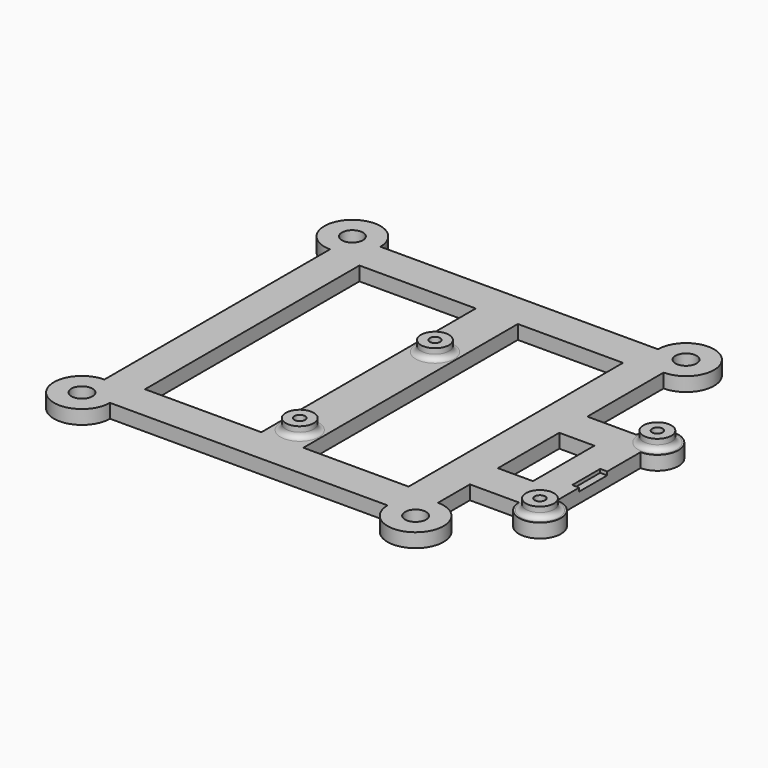
from build123d import *

# Parameters (mm, degrees)
SKETCH_R      = 1.5
SKETCH_R_2    = 3
SKETCH_W      = 33.214997
SKETCH_H      = 76.52
SKETCH_W_2    = 30.035003
SKETCH_W_3    = 10.005
SKETCH_H_2    = 21.910002
PAD_DEPTH     = 4
SKETCH001_R   = 4
SKETCH001_R_2 = 1.5
PAD001_DEPTH  = 3
FILLET_R      = 1.5
SKETCH002_W   = 10
SKETCH002_H   = 1
POCKET_DEPTH  = 2
CHAMFER_SIZE  = 1.5


with BuildPart() as obj1:
    # Sketch → Pad (new body)
    with BuildSketch(Plane.XY):
        with BuildLine():
            ThreePointArc((2.930002, 28.879999), (-10.726853, 34.536854), (-5.069998, 20.879999))
            Line((-5.069998, 20.879999), (-5.069998, -59.640001))
            ThreePointArc((-5.069998, -59.640001), (-10.726853, -73.296855), (2.930002, -67.640001))
            Line((2.930002, -67.640001), (82.180002, -67.640001))
            ThreePointArc((82.180002, -67.640001), (95.836856, -73.296855), (90.180002, -59.640001))
            Line((90.180002, -48.259999), (90.180002, -59.640001))
            Line((104.184999, -48.259999), (90.180002, -48.259999))
            ThreePointArc((104.184999, -48.259999), (114.427638, -52.502641), (110.185002, -42.259999))
            Line((110.185002, -12.349997), (110.185002, -42.259999))
            ThreePointArc((110.185002, -12.349997), (114.427643, -2.107356), (104.185002, -6.349997))
            Line((90.180002, -6.349997), (104.185002, -6.349997))
            Line((90.180002, 20.879999), (90.180002, -6.349997))
            ThreePointArc((90.180002, 20.879999), (95.836856, 34.536854), (82.180002, 28.879999))
            Line((2.930002, 28.879999), (82.180002, 28.879999))
        make_face()
        with Locations((44.145001, -51.434998)):
            Circle(SKETCH_R, mode=Mode.SUBTRACT)
        with Locations((110.184999, -48.259999)):
            Circle(SKETCH_R, mode=Mode.SUBTRACT)
        with Locations((44.144999, -3.174998)):
            Circle(SKETCH_R, mode=Mode.SUBTRACT)
        with Locations((110.185002, -6.349997)):
            Circle(SKETCH_R, mode=Mode.SUBTRACT)
        with Locations((-5.069998, 28.879999)):
            Circle(SKETCH_R_2, mode=Mode.SUBTRACT)
        with Locations((-5.069998, -67.640001)):
            Circle(SKETCH_R_2, mode=Mode.SUBTRACT)
        with Locations((90.180002, -67.640001)):
            Circle(SKETCH_R_2, mode=Mode.SUBTRACT)
        with Locations((90.180002, 28.879999)):
            Circle(SKETCH_R_2, mode=Mode.SUBTRACT)
        with Locations((21.537501, -19.380001)):
            Rectangle(SKETCH_W, SKETCH_H, mode=Mode.SUBTRACT)
        with Locations((65.1625, -19.380001)):
            Rectangle(SKETCH_W_2, SKETCH_H, mode=Mode.SUBTRACT)
        with Locations((95.182502, -27.304998)):
            Rectangle(SKETCH_W_3, SKETCH_H_2, mode=Mode.SUBTRACT)
    extrude(amount=PAD_DEPTH)


with BuildPart() as top_supports_final:
    # Pad001 base: copy of obj1
    add(obj1.part)

    # Sketch001 → Pad001 (new body)
    with BuildSketch(Plane.XY.offset(4)):
        with Locations((44.144999, -3.174998)):
            Circle(SKETCH001_R)
        with Locations((44.144999, -3.174998)):
            Circle(SKETCH001_R_2, mode=Mode.SUBTRACT)
        with Locations((44.145001, -51.434998)):
            Circle(SKETCH001_R)
        with Locations((44.145001, -51.434998)):
            Circle(SKETCH001_R_2, mode=Mode.SUBTRACT)
        with Locations((110.184999, -48.259999)):
            Circle(SKETCH001_R)
        with Locations((110.184999, -48.259999)):
            Circle(SKETCH001_R_2, mode=Mode.SUBTRACT)
        with Locations((110.185002, -6.349997)):
            Circle(SKETCH001_R)
        with Locations((110.185002, -6.349997)):
            Circle(SKETCH001_R_2, mode=Mode.SUBTRACT)
    extrude(amount=PAD001_DEPTH)


with BuildPart() as top_support_fillets:
    # Fillet base: copy of top_supports_final
    add(top_supports_final.part)

    # Fillet
    fillet_edges = [top_support_fillets.edges().sort_by_distance(p)[0] for p in [
        (106.184999, -48.259999, 4),
        (40.144999, -3.174998, 4),
        (40.145001, -51.434998, 4),
        (106.185002, -6.349997, 4),
    ]]
    fillet(fillet_edges, radius=FILLET_R)


with BuildPart() as base_rough:
    # Fusion base: copy of obj1
    add(obj1.part)

    # Fusion: union top_support_fillets, top_supports_final
    add(top_support_fillets.part)
    add(top_supports_final.part)


with BuildPart() as base_rough_1:
    # Fusion placement: moved
    add(base_rough.part.moved(Location((0, 0, -7))))


with BuildPart() as hdmi_clearance:
    # Pocket base: copy of base_rough
    add(base_rough_1.part)

    # Sketch002 → Pocket (cut)
    with BuildSketch(Plane(origin=(110.185002, 0, -7), x_dir=(0, 1, 0), z_dir=(1, 0, 0))):
        with Locations((-29.259999, 3.5)):
            Rectangle(SKETCH002_W, SKETCH002_H)
    extrude(amount=-POCKET_DEPTH, mode=Mode.SUBTRACT)


with BuildPart() as chamfer_body:
    # Chamfer base: copy of base_rough
    add(base_rough_1.part)

    # Chamfer
    chamfer_edges = [chamfer_body.edges().sort_by_distance(p)[0] for p in [
        (42.644999, -3.174998, -7),
        (42.645001, -51.434998, -7),
        (108.684999, -48.259999, -7),
        (108.685002, -6.349997, -7),
    ]]
    chamfer(chamfer_edges, length=CHAMFER_SIZE)


with BuildPart() as obj2:
    # Common base: copy of base_rough
    add(base_rough_1.part)

    # Common: intersect hdmi_clearance, Chamfer body
    add(hdmi_clearance.part, mode=Mode.INTERSECT)
    add(chamfer_body.part, mode=Mode.INTERSECT)


solid = obj2.part
